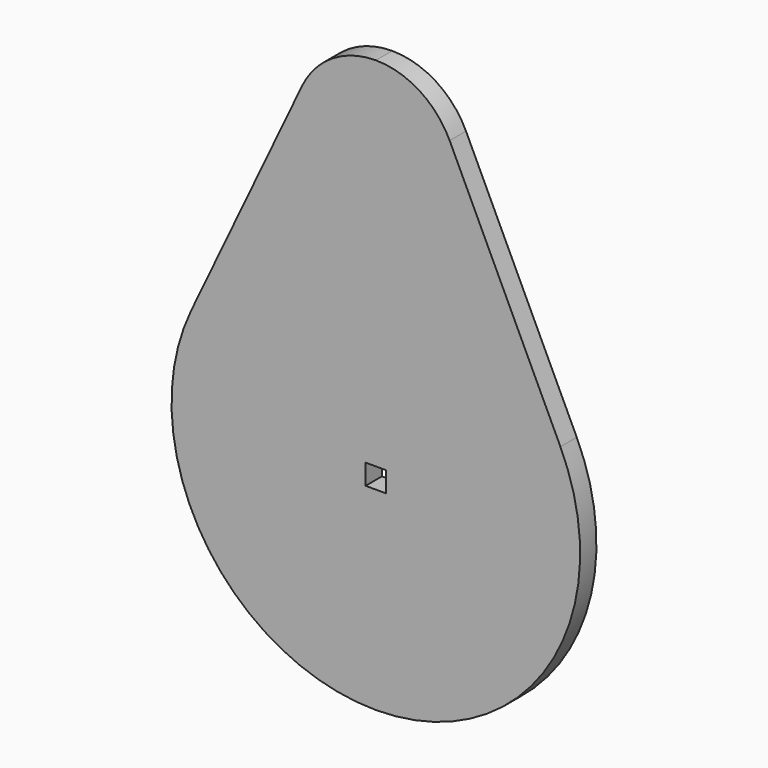
from build123d import *

# Parameters (mm, degrees)
F1_DEPTH = 3.175


with BuildPart() as f1:
    # F0 (on Front) → F1 (new body)
    with BuildSketch(Plane.XZ):
        with BuildLine():
            Line((-1.5875, 1.5875), (0, 1.5875))
            Line((0, 1.5875), (0, 44.45))
            Line((0, 44.45), (0, 57.15))
            ThreePointArc((0, 57.15), (-6.788436, 55.183459), (-11.47455, 49.892857))
            Line((-11.47455, 49.892857), (-28.686376, 13.607143))
            ThreePointArc((-28.686376, 13.607143), (-26.833648, -16.971089), (0, -31.75))
            Line((0, -31.75), (0, -1.5875))
            Line((0, -1.5875), (-1.5875, -1.5875))
            Line((-1.5875, -1.5875), (-1.5875, 1.5875))
        make_face()
        with BuildLine():
            Line((0, 44.45), (0, 1.5875))
            Line((0, 1.5875), (1.5875, 1.5875))
            Line((1.5875, 1.5875), (1.5875, -1.5875))
            Line((1.5875, -1.5875), (0, -1.5875))
            Line((0, -1.5875), (0, -31.75))
            ThreePointArc((0, -31.75), (26.833648, -16.971089), (28.686376, 13.607143))
            Line((28.686376, 13.607143), (11.47455, 49.892857))
            ThreePointArc((11.47455, 49.892857), (6.788436, 55.183459), (0, 57.15))
            Line((0, 57.15), (0, 44.45))
        make_face()
    extrude(amount=F1_DEPTH)


solid = f1.part
